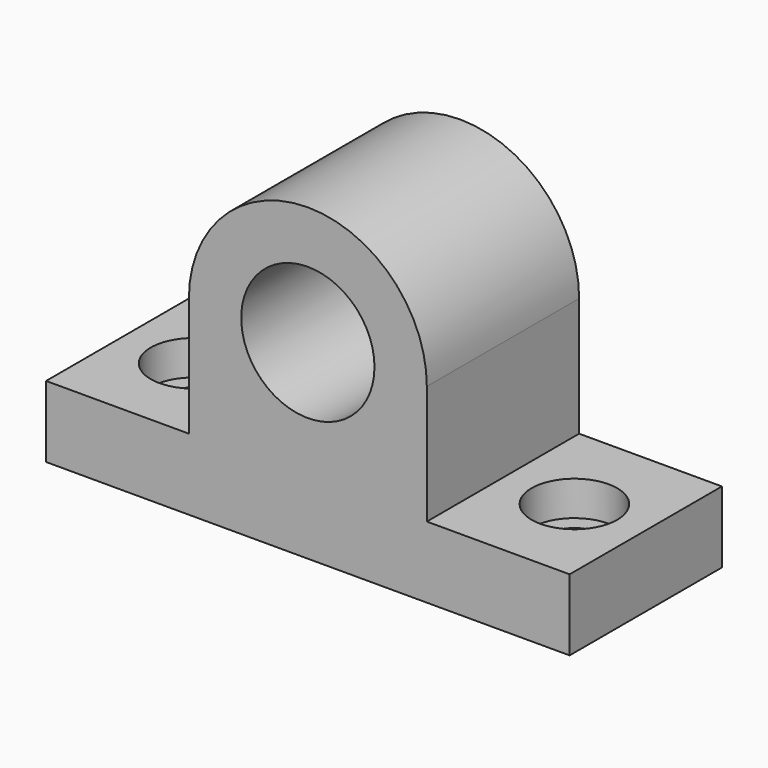
from build123d import *

# Parameters (mm, degrees)
F0_R     = 14
F1_DEPTH = 40
F2_R     = 5.5
F3_DEPTH = 25
F2_R_2   = 9
F4_DEPTH = 7.3


with BuildPart() as f1:
    # F0 (on Front) → F1 (new body)
    with BuildSketch(Plane.XZ):
        with BuildLine():
            Line((-55, -6.768388), (-55, -21.768388))
            Line((-55, -21.768388), (55, -21.768388))
            Line((55, -21.768388), (55, -6.768388))
            Line((55, -6.768388), (25, -6.768388))
            Line((25, -6.768388), (25, 18.231612))
            ThreePointArc((25, 18.231612), (0, 43.231612), (-25, 18.231612))
            Line((-25, 18.231612), (-25, -6.768388))
            Line((-25, -6.768388), (-55, -6.768388))
        make_face()
        with Locations((0, 18.231612)):
            Circle(F0_R, mode=Mode.SUBTRACT)
    extrude(amount=F1_DEPTH)

    # F2 (on face) → F3 (cut)
    with BuildSketch(Plane.XY.offset(-6.768388)):
        with Locations((40, -20)):
            Circle(F2_R)
        with Locations((-40, -20)):
            Circle(F2_R)
    extrude(amount=-F3_DEPTH, mode=Mode.SUBTRACT)

    # F2 (on face) → F4 (cut)
    with BuildSketch(Plane.XY.offset(-6.768388)):
        with Locations((-40, -20)):
            Circle(F2_R_2)
        with Locations((-40, -20)):
            Circle(F2_R, mode=Mode.SUBTRACT)
        with Locations((40, -20)):
            Circle(F2_R_2)
        with Locations((40, -20)):
            Circle(F2_R, mode=Mode.SUBTRACT)
    extrude(amount=-F4_DEPTH, mode=Mode.SUBTRACT)


solid = f1.part
